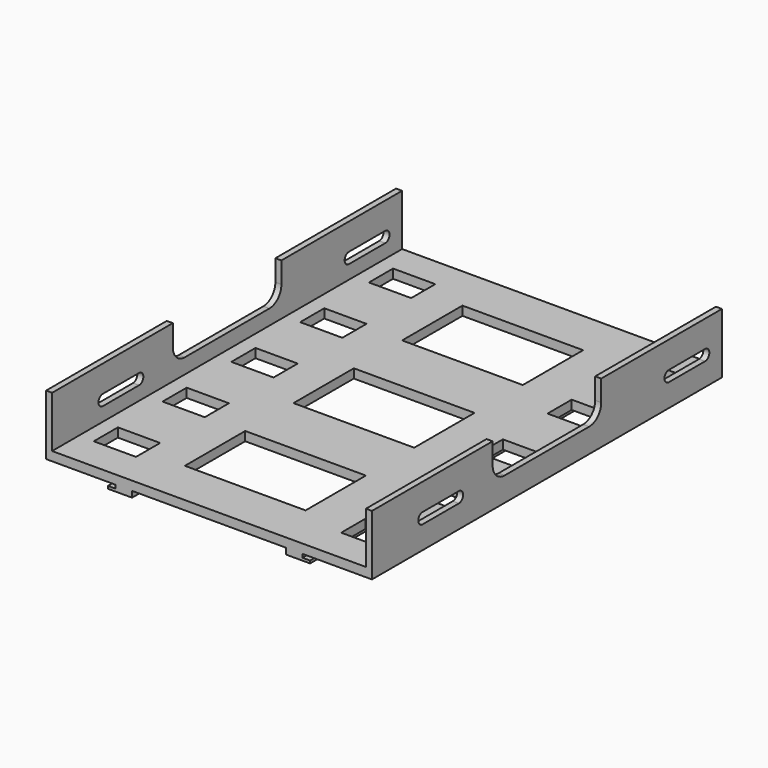
from build123d import *

# Parameters (mm, degrees)
F1_DEPTH = 145
F3_DEPTH = 108.001
F4_W     = 40
F4_H     = 25
F4_W_2   = 14
F4_H_2   = 10
F5_DEPTH = 5.001
F7_DEPTH = 108.001


with BuildPart() as f1:
    # F0 (on Front) → F1 (new body)
    with BuildSketch(Plane.XZ):
        Polygon((-54, 20), (-54, 0), (-31, 0), (-31, -1.15), (-33.5, -1.15), (-33.5, -2), (-25.5, -2), (-25.5, 0), (25.5, 0), (25.5, -2), (33.5, -2), (33.5, -1.15), (31, -1.15), (31, 0), (54, 0), (54, 20), (52, 20), (52, 3), (0, 3), (-52, 3), (-52, 20), align=None)
    extrude(amount=F1_DEPTH)

    # F2 (on face) → F3 (cut, through all)
    with BuildSketch(Plane.YZ.offset(54)):
        with BuildLine():
            Line((-109, 11.15), (-124, 11.15))
            ThreePointArc((-124, 11.15), (-125.8, 9.35), (-124, 7.55))
            Line((-124, 7.55), (-109, 7.55))
            ThreePointArc((-109, 7.55), (-107.2, 9.35), (-109, 11.15))
        make_face()
        with BuildLine():
            ThreePointArc((-22, 11.15), (-23.8, 9.35), (-22, 7.55))
            Line((-22, 7.55), (-7, 7.55))
            ThreePointArc((-7, 7.55), (-5.2, 9.35), (-7, 11.15))
            Line((-7, 11.15), (-22, 11.15))
        make_face()
    extrude(amount=-F3_DEPTH, mode=Mode.SUBTRACT)

    # F4 (on face) → F5 (cut, through all)
    with BuildSketch(Plane.XY.offset(3)):
        with Locations((0, -27.5)):
            Rectangle(F4_W, F4_H)
        with Locations((-40, -15)):
            Rectangle(F4_W_2, F4_H_2)
        with Locations((-40, -43.5)):
            Rectangle(F4_W_2, F4_H_2)
        with Locations((-40, -72)):
            Rectangle(F4_W_2, F4_H_2)
        with Locations((-40, -100.5)):
            Rectangle(F4_W_2, F4_H_2)
        with Locations((-40, -129)):
            Rectangle(F4_W_2, F4_H_2)
        with Locations((42, -15)):
            Rectangle(F4_W_2, F4_H_2)
        with Locations((42, -43.5)):
            Rectangle(F4_W_2, F4_H_2)
        with Locations((42, -72)):
            Rectangle(F4_W_2, F4_H_2)
        with Locations((42, -100.5)):
            Rectangle(F4_W_2, F4_H_2)
        with Locations((42, -129)):
            Rectangle(F4_W_2, F4_H_2)
        with Locations((0, -72.5)):
            Rectangle(F4_W, F4_H)
        with Locations((0, -117.5)):
            Rectangle(F4_W, F4_H)
    extrude(amount=-F5_DEPTH, mode=Mode.SUBTRACT)

    # F6 (on face) → F7 (cut, through all)
    with BuildSketch(Plane(origin=(-54, 0, 0), x_dir=(0, -1, 0), z_dir=(-1, 0, 0))):
        with BuildLine():
            Line((95, 20), (50, 20))
            Line((50, 20), (50, 13))
            ThreePointArc((50, 13), (51.464466, 9.464466), (55, 8))
            Line((55, 8), (90, 8))
            ThreePointArc((90, 8), (93.535534, 9.464466), (95, 13))
            Line((95, 13), (95, 20))
        make_face()
    extrude(amount=-F7_DEPTH, mode=Mode.SUBTRACT)


solid = f1.part
